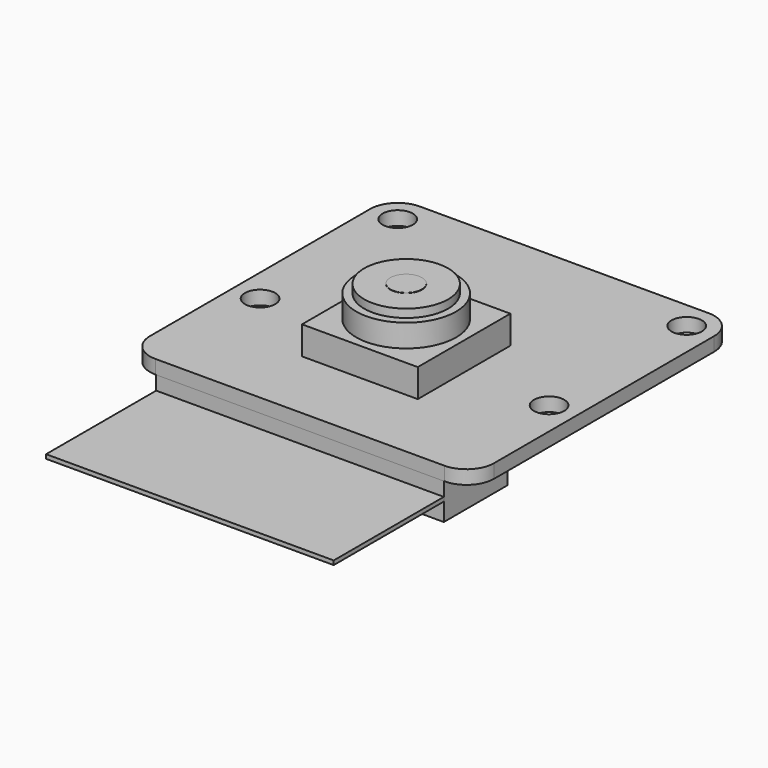
from build123d import *

# Parameters (mm, degrees)
F1_DEPTH  = 1
F2_R      = 1.1
F3_DEPTH  = 1
F4_W      = 8.41
F4_H      = 8.41
F5_DEPTH  = 2.05
F6_R      = 3.625
F6_R_2    = 3.05
F6_R_3    = 1.15
F7_DEPTH  = 1.65
F8_DEPTH  = 2.25
F9_DEPTH  = 2.27
F10_W     = 20.9
F10_H     = 5.8
F11_DEPTH = 2.62
F12_W     = 20.9
F12_H     = 0.3
F13_DEPTH = 10


with BuildPart() as f1:
    # F0 (on Top) → F1 (new body)
    with BuildSketch(Plane.XY):
        with BuildLine():
            ThreePointArc((12.5, 10), (11.914214, 11.414214), (10.5, 12))
            Line((10.5, 12), (-10.5, 12))
            ThreePointArc((-10.5, 12), (-11.914214, 11.414214), (-12.5, 10))
            Line((-12.5, 10), (-12.5, -10))
            ThreePointArc((-12.5, -10), (-11.914214, -11.414214), (-10.5, -12))
            Line((-10.5, -12), (10.5, -12))
            ThreePointArc((10.5, -12), (11.914214, -11.414214), (12.5, -10))
            Line((12.5, -10), (12.5, 10))
        make_face()
    extrude(amount=-F1_DEPTH)

    # F2 (on face) → F3 (cut, through all)
    with BuildSketch(Plane.XY):
        with Locations((-10.5, 10)):
            Circle(F2_R)
        with Locations((-10.5, -2.5)):
            Circle(F2_R)
        with Locations((10.5, -2.5)):
            Circle(F2_R)
        with Locations((10.5, 10)):
            Circle(F2_R)
    extrude(amount=-F3_DEPTH, mode=Mode.SUBTRACT)


with BuildPart() as f5:
    # F4 (on face) → F5 (new body)
    with BuildSketch(Plane.XY):
        with Locations((0, -2.355)):
            Rectangle(F4_W, F4_H)
    extrude(amount=F5_DEPTH)

    # F6 (on face) → F7 (join)
    with BuildSketch(Plane.XY.offset(2.05)):
        with Locations((0, -2.355)):
            Circle(F6_R)
        with Locations((0, -2.355)):
            Circle(F6_R_2, mode=Mode.SUBTRACT)
        with Locations((0, -2.355)):
            Circle(F6_R_2)
        with Locations((0, -2.355)):
            Circle(F6_R_3, mode=Mode.SUBTRACT)
        with Locations((0, -2.355)):
            Circle(F6_R_3)
    extrude(amount=F7_DEPTH)

    # F6 (on face) → F8 (join)
    with BuildSketch(Plane.XY.offset(2.05)):
        with Locations((0, -2.355)):
            Circle(F6_R_2)
        with Locations((0, -2.355)):
            Circle(F6_R_3, mode=Mode.SUBTRACT)
        with Locations((0, -2.355)):
            Circle(F6_R_3)
    extrude(amount=F8_DEPTH)


with BuildPart() as f9:
    # F6 (on face) → F9 (new body)
    with BuildSketch(Plane.XY.offset(2.05)):
        with Locations((0, -2.355)):
            Circle(F6_R_3)
    extrude(amount=F9_DEPTH)


with BuildPart() as f11:
    # F10 (on face) → F11 (new body)
    with BuildSketch(Plane(origin=(0, 0, -1), x_dir=(1, 0, 0), z_dir=(0, 0, -1))):
        with Locations((0, 9.1)):
            Rectangle(F10_W, F10_H)
    extrude(amount=F11_DEPTH)


with BuildPart() as f13:
    # F12 (on face) → F13 (new body)
    with BuildSketch(Plane.XZ.offset(12)):
        with Locations((0, -2.16)):
            Rectangle(F12_W, F12_H)
    extrude(amount=F13_DEPTH)


solid = Compound([f1.part, f5.part, f9.part, f11.part, f13.part])
